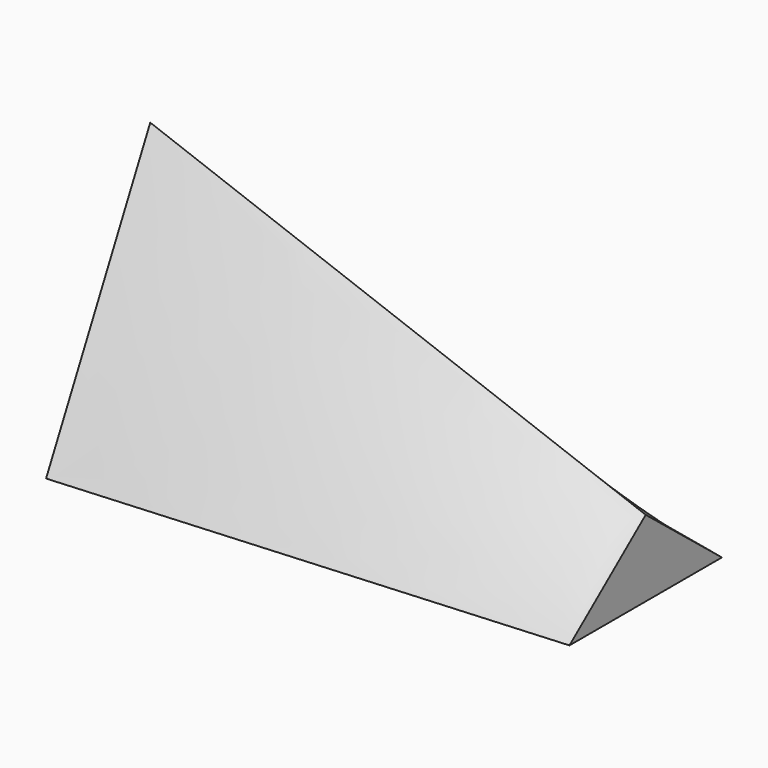
from build123d import *


with BuildPart() as f7:
    # F6 (on face) → F7 section 0
    with BuildSketch(Plane(origin=(1066.8, 0, 0), x_dir=(0, -1, 0), z_dir=(-1, 0, 0))):
        Polygon((0, 304.8), (-381, 0), (381, 0), align=None)
    # F5 (on face) → F7 section 1
    with BuildSketch(Plane(origin=(-914.4, 0, 0), x_dir=(0, -1, 0), z_dir=(-1, 0, 0))):
        Polygon((0, 1041.4), (-520.7, 0), (520.7, 0), align=None)
    loft()


solid = f7.part
